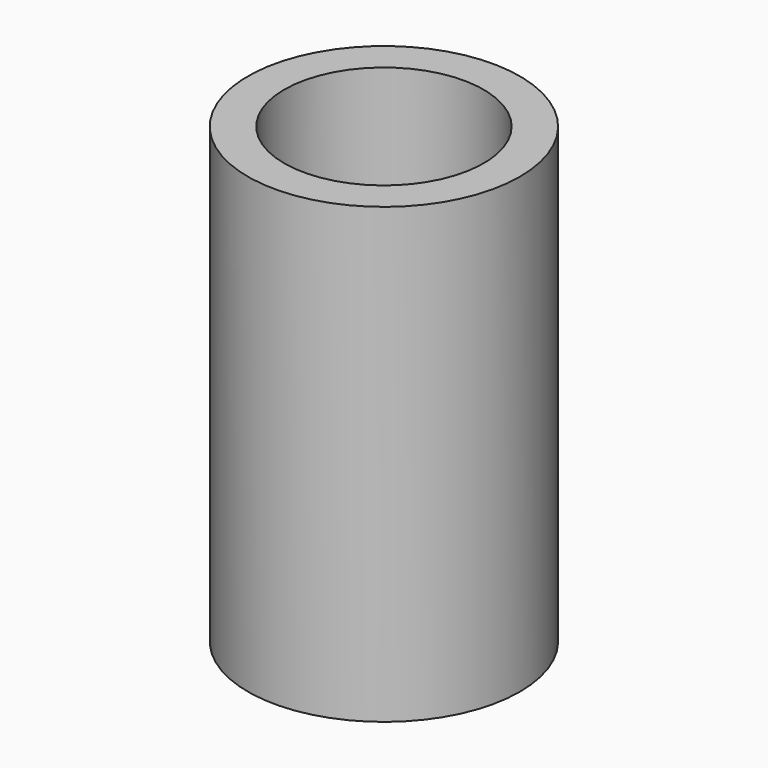
from build123d import *

# Parameters (mm, degrees)
F0_R     = 15
F1_DEPTH = 50
F2_D     = 22
F4_D     = 5.8
F4_DEPTH = 15.001


with BuildPart() as f1:
    # F0 (on Top) → F1 (new body)
    with BuildSketch(Plane.XY):
        Circle(F0_R)
    extrude(amount=F1_DEPTH)

    # F2 (through all)
    with Locations(Plane(origin=(0, 0, 0), x_dir=(1, 0, 0), z_dir=(0, 0, -1))):
        with Locations((0, 0)):
            Hole(F2_D / 2)

    # F4 (through all, one way)
    with BuildSketch(Plane.YZ):
        with Locations((0, 25)):
            Circle(F4_D / 2)
    extrude(amount=-F4_DEPTH, mode=Mode.SUBTRACT)


solid = f1.part
